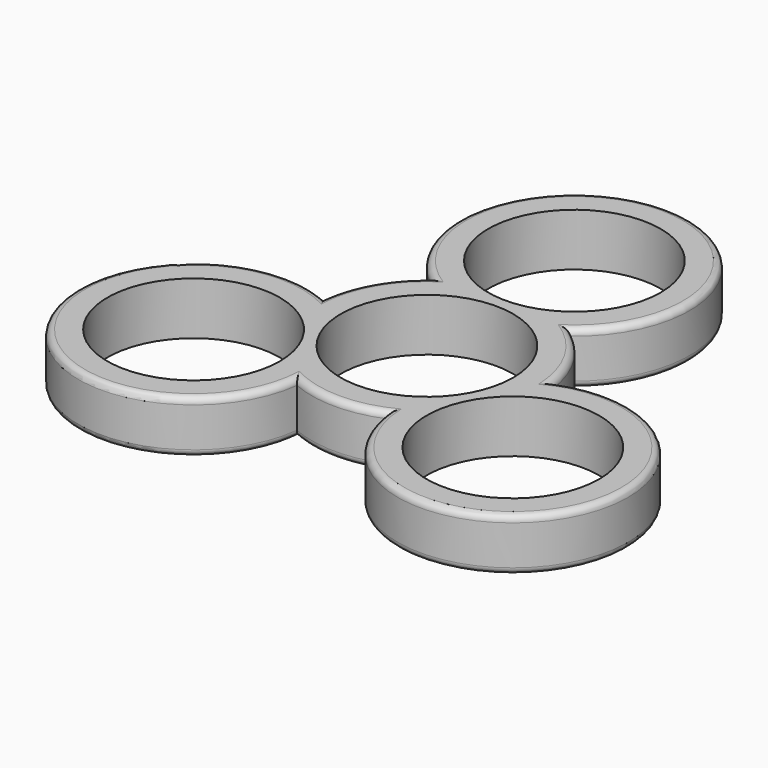
from build123d import *

# Parameters (mm, degrees)
F0_R     = 13.1
F1_DEPTH = 8
F2_R     = 1


with BuildPart() as f1:
    # F0 (on Top) → F1 (new body)
    with BuildSketch(Plane.XY):
        with BuildLine():
            ThreePointArc((-17.374356, 2.093267), (-39.404156, -22.75), (-6.874356, -16.093267))
            ThreePointArc((-6.874356, -16.093267), (0, -17.5), (6.874356, -16.093267))
            ThreePointArc((6.874356, -16.093267), (39.404156, -22.75), (17.374356, 2.093267))
            ThreePointArc((17.374356, 2.093267), (15.155445, 8.75), (10.5, 14))
            ThreePointArc((10.5, 14), (0, 45.5), (-10.5, 14))
            ThreePointArc((-10.5, 14), (-15.155445, 8.75), (-17.374356, 2.093267))
        make_face()
        with Locations((-24.248711, -14)):
            Circle(F0_R, mode=Mode.SUBTRACT)
        Circle(F0_R, mode=Mode.SUBTRACT)
        with Locations((24.248711, -14)):
            Circle(F0_R, mode=Mode.SUBTRACT)
        with Locations((0, 28)):
            Circle(F0_R, mode=Mode.SUBTRACT)
    extrude(amount=F1_DEPTH)

    # F2
    f2_edges = [f1.edges().sort_by_distance(p)[0] for p in [
        (-39.404156, -22.75, 8),
        (-15.155445, 8.75, 8),
        (0, 45.5, 8),
        (15.155445, 8.75, 8),
        (39.404156, -22.75, 8),
        (0, -17.5, 8),
        (-39.404156, -22.75, 0),
        (0, -17.5, 0),
        (39.404156, -22.75, 0),
        (15.155445, 8.75, 0),
        (0, 45.5, 0),
        (-15.155445, 8.75, 0),
    ]]
    fillet(f2_edges, radius=F2_R)


solid = f1.part
